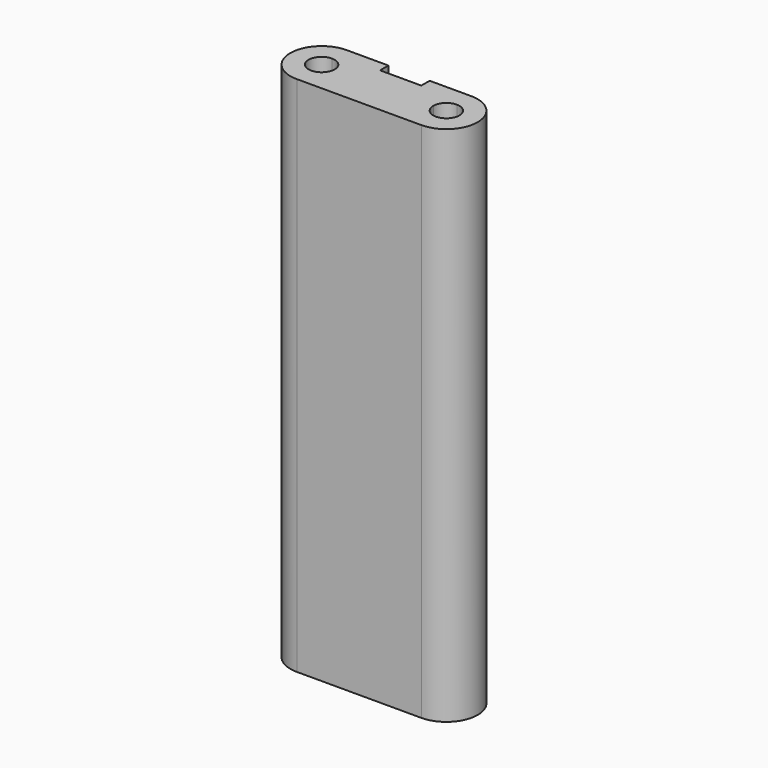
from build123d import *

# Parameters (mm, degrees)
F1_DEPTH = 25


with BuildPart() as f1:
    # F0 (on Top) → F1 (new body)
    with BuildSketch(Plane.XY):
        with BuildLine():
            Line((-4.614562, 8.590986), (-9.337365, 8.590986))
            ThreePointArc((-9.337365, 8.590986), (-9.520423, 8.149044), (-9.962365, 7.965986))
            Line((-9.962365, 7.965986), (-9.962365, 7.518355))
            Line((-9.962365, 7.518355), (-9.952076, 7.091021))
            Line((-9.952076, 7.091021), (-3.989562, 7.091021))
            Line((-3.989562, 7.091021), (-3.989562, 7.965986))
            ThreePointArc((-3.989562, 7.965986), (-4.431504, 8.149044), (-4.614562, 8.590986))
        make_face()
        with BuildLine():
            ThreePointArc((-9.962365, 9.215986), (-9.520423, 9.032927), (-9.337365, 8.590986))
            Line((-9.337365, 8.590986), (-4.614562, 8.590986))
            ThreePointArc((-4.614562, 8.590986), (-4.431504, 9.032927), (-3.989562, 9.215986))
            Line((-3.989562, 9.215986), (-3.989562, 10.090986))
            Line((-3.989562, 10.090986), (-5.989562, 10.090986))
            Line((-5.989562, 10.090986), (-5.989562, 9.590986))
            Line((-5.989562, 9.590986), (-7.962365, 9.590986))
            Line((-7.962365, 9.590986), (-7.962365, 10.090986))
            Line((-7.962365, 10.090986), (-9.962365, 10.090986))
            Line((-9.962365, 10.090986), (-9.962365, 9.215986))
        make_face()
        with BuildLine():
            ThreePointArc((-9.962365, 7.965986), (-10.587365, 8.590986), (-9.962365, 9.215986))
            Line((-9.962365, 9.215986), (-9.962365, 10.090986))
            ThreePointArc((-9.962365, 10.090986), (-11.462356, 8.585842), (-9.952076, 7.091021))
            Line((-9.952076, 7.091021), (-9.962365, 7.518355))
            Line((-9.962365, 7.518355), (-9.962365, 7.965986))
        make_face()
        with BuildLine():
            Line((-3.989562, 10.090986), (-3.989562, 9.215986))
            ThreePointArc((-3.989562, 9.215986), (-3.547621, 9.032927), (-3.364562, 8.590986))
            ThreePointArc((-3.364562, 8.590986), (-3.547621, 8.149044), (-3.989562, 7.965986))
            Line((-3.989562, 7.965986), (-3.989562, 7.091021))
            ThreePointArc((-3.989562, 7.091021), (-2.48958, 8.591003), (-3.989562, 10.090986))
        make_face()
    extrude(amount=F1_DEPTH)


solid = f1.part
